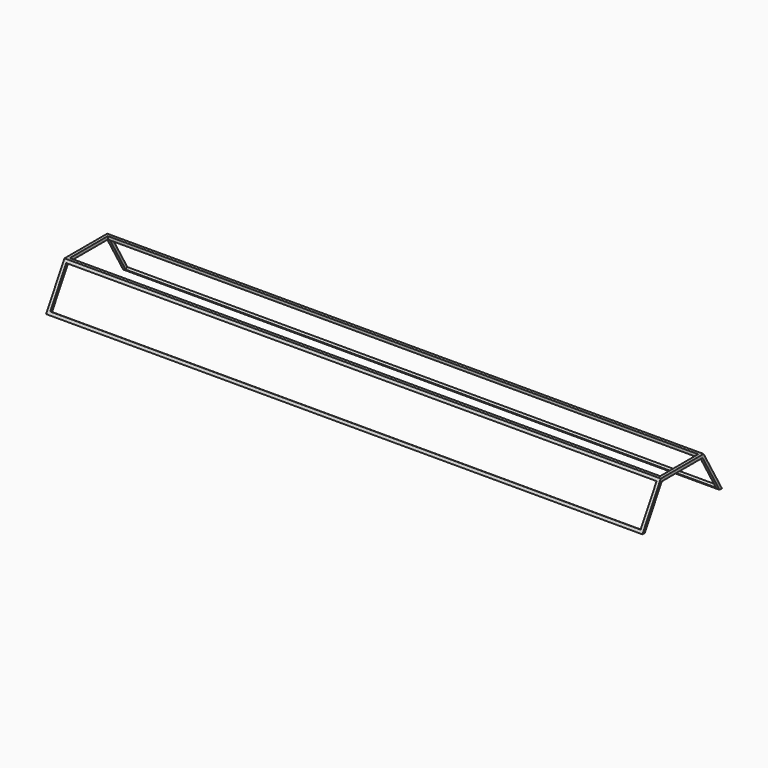
from build123d import *

# Parameters (mm, degrees)
F1_DEPTH = 15240
F2_W     = 15087.6
F2_H     = 1020.7757469933
F3_DEPTH = 76.2
F4_W     = 15087.6
F4_H     = 1214.4242530067
F5_DEPTH = 76.2
F6_W     = 15087.6
F6_H     = 1020.7757469933
F7_DEPTH = 76.2


with BuildPart() as f1:
    # F0 (on Right) → F1 (new body)
    with BuildSketch(Plane.YZ):
        Polygon((-40.4404837035, 1016), (-627.0283572002, 0), (-550.8283572002, 0), (-8.2345742158, 939.8), (1294.1778598154, 939.8), (1836.7716427998, 0), (1912.9716427998, 0), (1326.3837693031, 1016), align=None)
    extrude(amount=-F1_DEPTH)

    # F2 (on face) → F3 (cut)
    with BuildSketch(Plane(origin=(0, -470.2712679001, 271.5112431143), x_dir=(1, 0, 0), z_dir=(0, -0.8660254038, 0.5))):
        with Locations((-7620, 273.0736948966)):
            Rectangle(F2_W, F2_H)
    extrude(amount=-F3_DEPTH, mode=Mode.SUBTRACT)

    # F4 (on face) → F5 (cut)
    with BuildSketch(Plane.XY.offset(1016)):
        with Locations((-7620, 642.9716427998)):
            Rectangle(F4_W, F4_H)
    extrude(amount=-F5_DEPTH, mode=Mode.SUBTRACT)

    # F6 (on face) → F7 (cut)
    with BuildSketch(Plane(origin=(0, 1434.7287320999, 828.3410196919), x_dir=(-1, 0, 0), z_dir=(0, 0.8660254038, 0.5))):
        with Locations((7620, -369.8979479032)):
            Rectangle(F6_W, F6_H)
    extrude(amount=-F7_DEPTH, mode=Mode.SUBTRACT)


solid = f1.part
